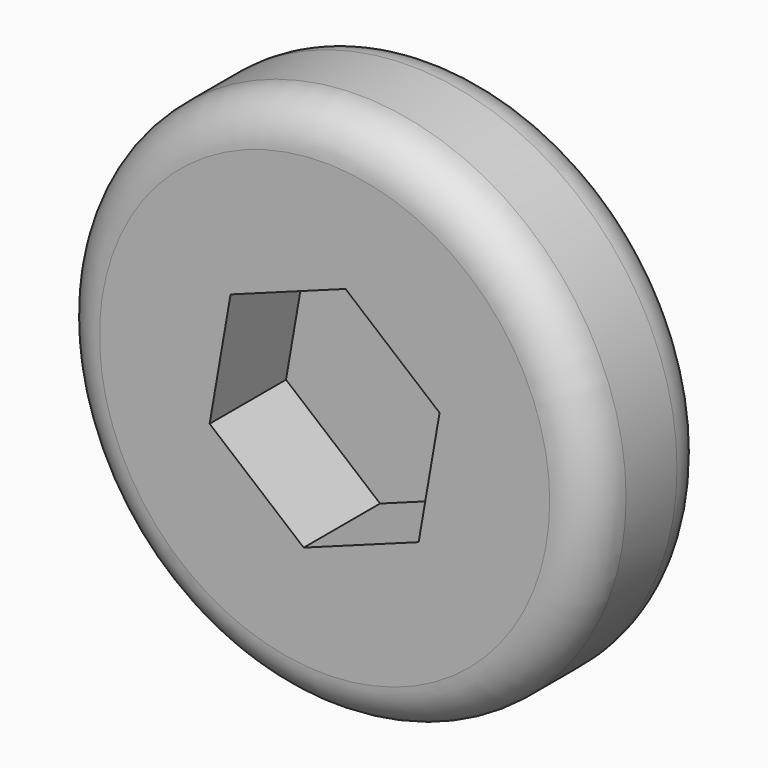
from build123d import *

# Parameters (mm, degrees)
F0_R     = 12.612488
F1_DEPTH = 7
F3_DEPTH = 4.5
F4_R     = 2


with BuildPart() as f1:
    # F0 (on Front) → F1 (new body)
    with BuildSketch(Plane.XZ):
        Circle(F0_R)
    extrude(amount=F1_DEPTH)

    # F2 (on face) → F3 (cut)
    with BuildSketch(Plane.XZ.offset(7)):
        Polygon((4.433325, -3.698508), (5.419665, 1.990118), (0.98634, 5.688626), (-4.433325, 3.698508), (-5.419665, -1.990118), (-0.98634, -5.688626), align=None)
    extrude(amount=-F3_DEPTH, mode=Mode.SUBTRACT)

    # F4
    f4_edges = [f1.edges().sort_by_distance(p)[0] for p in [
        (-12.612488, -7, 0),
        (-12.612488, 0, 0),
    ]]
    fillet(f4_edges, radius=F4_R)


solid = f1.part
